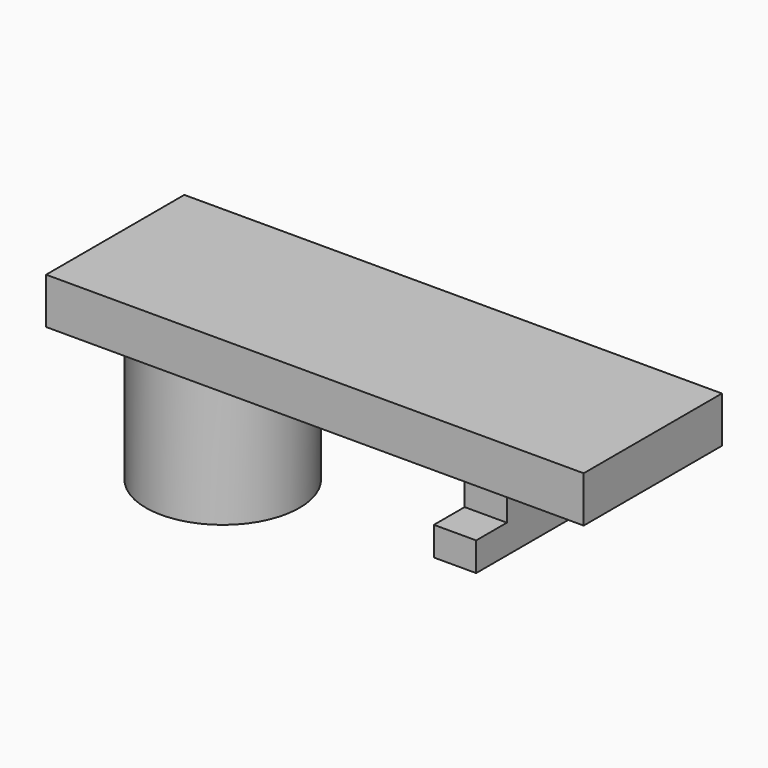
from build123d import *

# Parameters (mm, degrees)
SKETCH115_W             = 9
SKETCH115_H             = 28
PAD054_DEPTH            = 2.4
SKETCH116_W             = 5
SKETCH116_H             = 2.2
PAD055_DEPTH            = 2.5
SKETCH118_W             = 9
SKETCH118_H             = 2.2
PAD057_DEPTH            = 1.5
SKETCH119_R             = 4
PAD058_DEPTH            = 7
BODY014_PLACEMENT_ANGLE = 90


with BuildPart() as part:
    # Sketch115 → Pad054 (new body)
    with BuildSketch(Plane.XY):
        Rectangle(SKETCH115_W, SKETCH115_H)
    extrude(amount=PAD054_DEPTH)

    # Sketch116 → Pad055 (join)
    with BuildSketch(Plane.XY):
        with Locations((0, -7.3)):
            Rectangle(SKETCH116_W, SKETCH116_H)
    extrude(amount=-PAD055_DEPTH)

    # Sketch118 → Pad057 (join)
    with BuildSketch(Plane.XY.offset(-2.5)):
        with Locations((0, -7.3)):
            Rectangle(SKETCH118_W, SKETCH118_H)
    extrude(amount=-PAD057_DEPTH)

    # Sketch119 → Pad058 (join)
    with BuildSketch(Plane.XY):
        with Locations((0, 8.4)):
            Circle(SKETCH119_R)
    extrude(amount=-PAD058_DEPTH)


with BuildPart() as part_1:
    # Body014 placement: moved
    add(part.part.moved(Location((8.4, -12, 20.1))).rotate(Axis((8.4, -12, 20.1), (0, 0, 1)), BODY014_PLACEMENT_ANGLE))


solid = part_1.part
